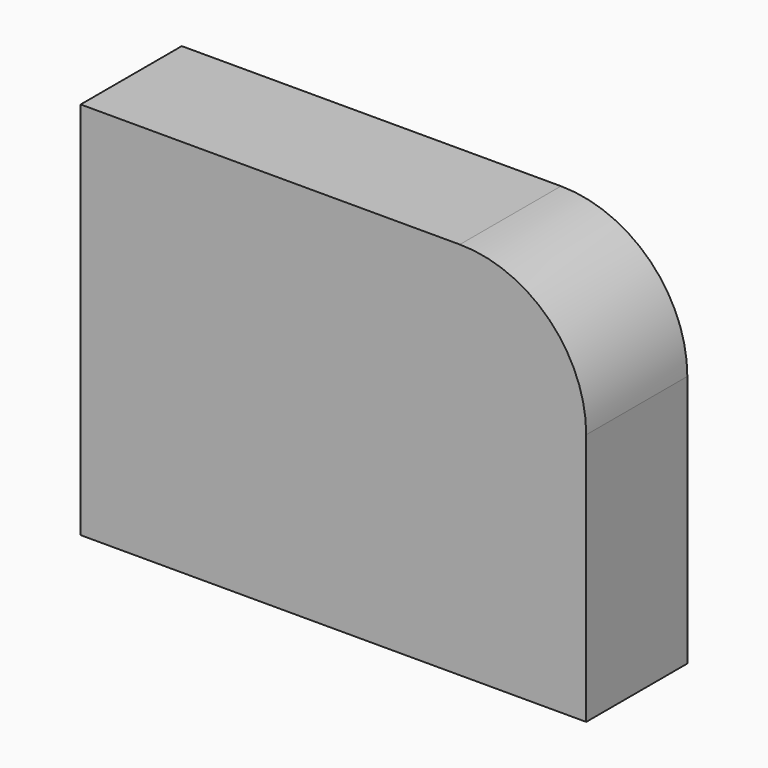
from build123d import *

# Parameters (mm, degrees)
F0_W     = 2032
F0_H     = 1524
F1_DEPTH = 254
F2_R     = 508


with BuildPart() as f1:
    # F0 (on Front) → F1 (new body, symmetric)
    with BuildSketch(Plane.XZ):
        Rectangle(F0_W, F0_H)
    extrude(amount=F1_DEPTH, both=True)

    # F2
    f2_edges = [f1.edges().sort_by_distance(p)[0] for p in [
        (1016, 0, 762),
    ]]
    fillet(f2_edges, radius=F2_R)


solid = f1.part
